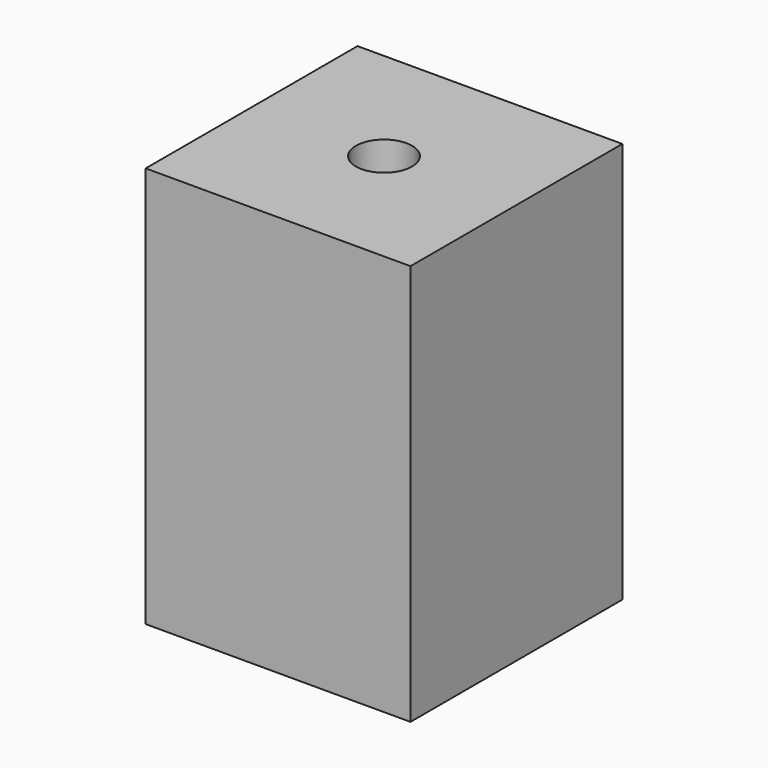
from build123d import *

# Parameters (mm, degrees)
BOX_W           = 33
BOX_H           = 33
BOX_DEPTH       = 50
SKETCH002_R     = 9
PAD001_DEPTH    = 2.5
SKETCH003_R     = 3.5
POCKET001_DEPTH = 53


with BuildPart() as part:
    # Box → Box (new body)
    with BuildSketch(Plane(origin=(-16.5, -16.5, 25), x_dir=(1, 0, 0), z_dir=(0, 0, 1))):
        with Locations((16.5, 16.5)):
            Rectangle(BOX_W, BOX_H)
    extrude(amount=BOX_DEPTH)

    # Sketch002 → Pad001 (new body)
    with BuildSketch(Plane(origin=(-16.5, -16.5, 25), x_dir=(1, 0, 0), z_dir=(0, 0, -1))):
        with Locations((16.5, -16.5)):
            Circle(SKETCH002_R)
    extrude(amount=PAD001_DEPTH)

    # Sketch003 → Pocket001 (cut)
    with BuildSketch(Plane(origin=(-16.5, -16.5, 22.5), x_dir=(1, 0, 0), z_dir=(0, 0, -1))):
        with Locations((16.5, -16.5)):
            Circle(SKETCH003_R)
    extrude(amount=-POCKET001_DEPTH, mode=Mode.SUBTRACT)


solid = part.part
